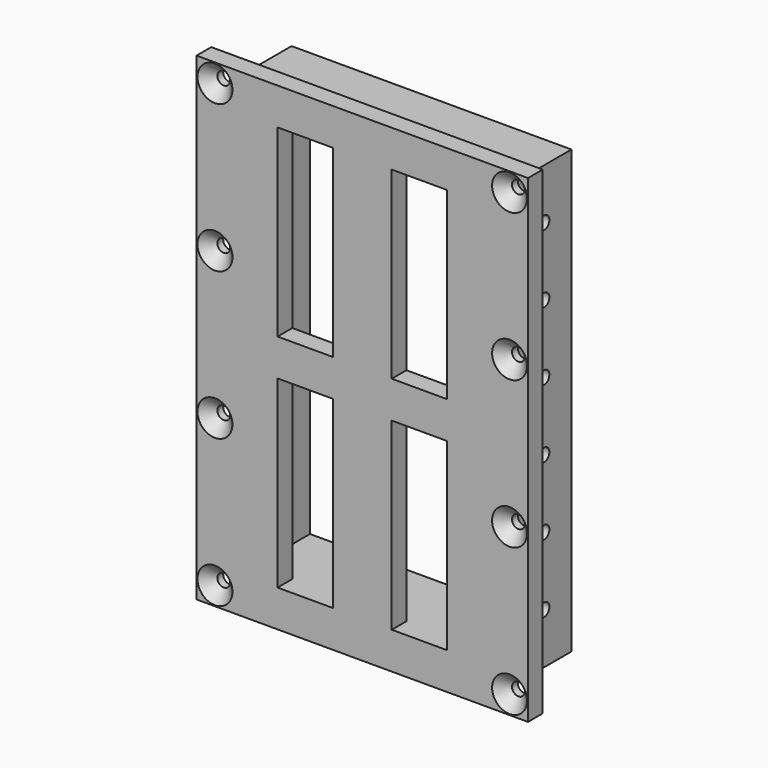
from build123d import *

# Parameters (mm, degrees)
F0_W      = 76
F0_H      = 120
F0_W_2    = 66
F0_H_2    = 110
F1_DEPTH  = 18.5
F2_W      = 90
F2_H      = 130
F2_R      = 1.75
F2_W_2    = 76
F2_H_2    = 120
F2_W_3    = 66
F2_H_3    = 110
F3_DEPTH  = 5
F5_DEPTH  = 5
F7_R      = 1.75
F8_DEPTH  = 5
F10_DEPTH = 2.75
F11_DEPTH = 10
F12_SIZE  = 3
F14_DEPTH = 2.75
F15_DEPTH = 10


with BuildPart() as f1:
    # F0 (on Front) → F1 (new body)
    with BuildSketch(Plane.XZ):
        Rectangle(F0_W, F0_H)
        Rectangle(F0_W_2, F0_H_2, mode=Mode.SUBTRACT)
    extrude(amount=-F1_DEPTH)

    # F2 (on face) → F3 (join)
    with BuildSketch(Plane.XZ):
        Rectangle(F2_W, F2_H)
        with Locations((-40, -60)):
            Circle(F2_R, mode=Mode.SUBTRACT)
        with Locations((40, -60)):
            Circle(F2_R, mode=Mode.SUBTRACT)
        with Locations((-40, 60)):
            Circle(F2_R, mode=Mode.SUBTRACT)
        Rectangle(F2_W_2, F2_H_2, mode=Mode.SUBTRACT)
        with Locations((40, 60)):
            Circle(F2_R, mode=Mode.SUBTRACT)
        Rectangle(F2_W_2, F2_H_2)
        Rectangle(F2_W_3, F2_H_3, mode=Mode.SUBTRACT)
    extrude(amount=F3_DEPTH)


with BuildPart() as f5:
    # F4 (on face) → F5 (new body)
    with BuildSketch(Plane.XZ.offset(5)):
        Polygon((-23, 55), (-33, 55), (-33, 5), (-33, -5), (-33, -55), (-23, -55), (-23, -5), (-8, -5), (-8, -55), (8, -55), (8, -5), (23, -5), (23, -55), (33, -55), (33, -5), (33, 5), (33, 55), (23, 55), (23, 5), (8, 5), (8, 55), (-8, 55), (-8, 5), (-23, 5), align=None)
    extrude(amount=-F5_DEPTH)

    # F6: union F1
    add(f1.part)

    # F7 (on face) → F8 (cut)
    with BuildSketch(Plane.XZ.offset(5)):
        with Locations((-40, 20)):
            Circle(F7_R)
        with Locations((-40, -20)):
            Circle(F7_R)
        with Locations((40, -20)):
            Circle(F7_R)
        with Locations((40, 20)):
            Circle(F7_R)
    extrude(amount=-F8_DEPTH, mode=Mode.SUBTRACT)

    # F9 (on face) → F10 (cut)
    with BuildSketch(Plane(origin=(33, 0, 0), x_dir=(0, -1, 0), z_dir=(-1, 0, 0))):
        with BuildLine():
            Line((-10.8017340466, -49.0204611136), (-9.25, -49.0002336325))
            Line((-9.25, -49.0002336325), (-9.25, -48))
            ThreePointArc((-9.25, -48), (-11, -46.25), (-9.25, -44.5))
            Line((-9.25, -44.5), (-9.25, -43.4997663675))
            Line((-9.25, -43.4997663675), (-10.8734226812, -43.5209283389))
            Line((-10.8734226812, -43.5209283389), (-12.4251567279, -46.2913894525))
            Line((-12.4251567279, -46.2913894525), (-10.8017340466, -49.0204611136))
        make_face()
        with BuildLine():
            Line((-9.25, -48), (-9.25, -49.0002336325))
            Line((-9.25, -49.0002336325), (-7.6265773188, -48.9790716611))
            Line((-7.6265773188, -48.9790716611), (-6.0748432721, -46.2086105475))
            Line((-6.0748432721, -46.2086105475), (-7.6982659534, -43.4795388864))
            Line((-7.6982659534, -43.4795388864), (-9.25, -43.4997663675))
            Line((-9.25, -43.4997663675), (-9.25, -44.5))
            ThreePointArc((-9.25, -44.5), (-8.0125631329, -45.0125631329), (-7.5, -46.25))
            ThreePointArc((-7.5, -46.25), (-8.0125631329, -47.4874368671), (-9.25, -48))
        make_face()
        with BuildLine():
            Line((-10.8377132403, 43.5), (-9.25, 43.5))
            Line((-9.25, 43.5), (-9.25, 44.5))
            ThreePointArc((-9.25, 44.5), (-11, 46.25), (-9.25, 48))
            Line((-9.25, 48), (-9.25, 49))
            Line((-9.25, 49), (-10.8377132403, 49))
            Line((-10.8377132403, 49), (-12.4254264805, 46.25))
            Line((-12.4254264805, 46.25), (-10.8377132403, 43.5))
        make_face()
        with BuildLine():
            Line((-9.25, 44.5), (-9.25, 43.5))
            Line((-9.25, 43.5), (-7.6622867597, 43.5))
            Line((-7.6622867597, 43.5), (-6.0745735195, 46.25))
            Line((-6.0745735195, 46.25), (-7.6622867597, 49))
            Line((-7.6622867597, 49), (-9.25, 49))
            Line((-9.25, 49), (-9.25, 48))
            ThreePointArc((-9.25, 48), (-8.0125631329, 47.4874368671), (-7.5, 46.25))
            ThreePointArc((-7.5, 46.25), (-8.0125631329, 45.0125631329), (-9.25, 44.5))
        make_face()
        with BuildLine():
            Line((-10.8377132403, 25), (-9.25, 25))
            Line((-9.25, 25), (-9.25, 26))
            ThreePointArc((-9.25, 26), (-11, 27.75), (-9.25, 29.5))
            Line((-9.25, 29.5), (-9.25, 30.5))
            Line((-9.25, 30.5), (-10.8377132403, 30.5))
            Line((-10.8377132403, 30.5), (-12.4254264805, 27.75))
            Line((-12.4254264805, 27.75), (-10.8377132403, 25))
        make_face()
        with BuildLine():
            Line((-9.25, 26), (-9.25, 25))
            Line((-9.25, 25), (-7.6622867597, 25))
            Line((-7.6622867597, 25), (-6.0745735195, 27.75))
            Line((-6.0745735195, 27.75), (-7.6622867597, 30.5))
            Line((-7.6622867597, 30.5), (-9.25, 30.5))
            Line((-9.25, 30.5), (-9.25, 29.5))
            ThreePointArc((-9.25, 29.5), (-8.0125631329, 28.9874368671), (-7.5, 27.75))
            ThreePointArc((-7.5, 27.75), (-8.0125631329, 26.5125631329), (-9.25, 26))
        make_face()
        with BuildLine():
            Line((-10.8377132403, 6.5), (-9.25, 6.5))
            Line((-9.25, 6.5), (-9.25, 7.5))
            ThreePointArc((-9.25, 7.5), (-11, 9.25), (-9.25, 11))
            Line((-9.25, 11), (-9.25, 12))
            Line((-9.25, 12), (-10.8377132403, 12))
            Line((-10.8377132403, 12), (-12.4254264805, 9.25))
            Line((-12.4254264805, 9.25), (-10.8377132403, 6.5))
        make_face()
        with BuildLine():
            Line((-9.25, 7.5), (-9.25, 6.5))
            Line((-9.25, 6.5), (-7.6622867597, 6.5))
            Line((-7.6622867597, 6.5), (-6.0745735195, 9.25))
            Line((-6.0745735195, 9.25), (-7.6622867597, 12))
            Line((-7.6622867597, 12), (-9.25, 12))
            Line((-9.25, 12), (-9.25, 11))
            ThreePointArc((-9.25, 11), (-8.0125631329, 10.4874368671), (-7.5, 9.25))
            ThreePointArc((-7.5, 9.25), (-8.0125631329, 8.0125631329), (-9.25, 7.5))
        make_face()
        with BuildLine():
            Line((-10.8377132403, -12), (-9.25, -12))
            Line((-9.25, -12), (-9.25, -11))
            ThreePointArc((-9.25, -11), (-11, -9.25), (-9.25, -7.5))
            Line((-9.25, -7.5), (-9.25, -6.5))
            Line((-9.25, -6.5), (-10.8377132403, -6.5))
            Line((-10.8377132403, -6.5), (-12.4254264805, -9.25))
            Line((-12.4254264805, -9.25), (-10.8377132403, -12))
        make_face()
        with BuildLine():
            Line((-9.25, -11), (-9.25, -12))
            Line((-9.25, -12), (-7.6622867597, -12))
            Line((-7.6622867597, -12), (-6.0745735195, -9.25))
            Line((-6.0745735195, -9.25), (-7.6622867597, -6.5))
            Line((-7.6622867597, -6.5), (-9.25, -6.5))
            Line((-9.25, -6.5), (-9.25, -7.5))
            ThreePointArc((-9.25, -7.5), (-8.0125631329, -8.0125631329), (-7.5, -9.25))
            ThreePointArc((-7.5, -9.25), (-8.0125631329, -10.4874368671), (-9.25, -11))
        make_face()
        with BuildLine():
            Line((-10.8013862672, -30.520655876), (-9.25, -30.5002381544))
            Line((-9.25, -30.5002381544), (-9.25, -29.5))
            ThreePointArc((-9.25, -29.5), (-11, -27.75), (-9.25, -26))
            Line((-9.25, -26), (-9.25, -24.9997618456))
            Line((-9.25, -24.9997618456), (-10.8737652402, -25.0211321435))
            Line((-10.8737652402, -25.0211321435), (-12.4251515074, -27.7917880196))
            Line((-12.4251515074, -27.7917880196), (-10.8013862672, -30.520655876))
        make_face()
        with BuildLine():
            Line((-9.25, -29.5), (-9.25, -30.5002381544))
            Line((-9.25, -30.5002381544), (-7.6262347598, -30.4788678565))
            Line((-7.6262347598, -30.4788678565), (-6.0748484926, -27.7082119804))
            Line((-6.0748484926, -27.7082119804), (-7.6986137328, -24.979344124))
            Line((-7.6986137328, -24.979344124), (-9.25, -24.9997618456))
            Line((-9.25, -24.9997618456), (-9.25, -26))
            ThreePointArc((-9.25, -26), (-8.0125631329, -26.5125631329), (-7.5, -27.75))
            ThreePointArc((-7.5, -27.75), (-8.0125631329, -28.9874368671), (-9.25, -29.5))
        make_face()
    extrude(amount=-F10_DEPTH, mode=Mode.SUBTRACT)

    # F11 (cut): faces of the model
    f11_faces = [f5.faces().sort_by_distance(p)[0] for p in [
        (33, 9.25, -46.25),
        (33, 9.25, -27.75),
        (33, 9.25, -9.25),
        (33, 9.25, 9.25),
        (33, 9.25, 27.75),
        (33, 9.25, 46.25),
    ]]
    extrude(f11_faces, amount=-F11_DEPTH, mode=Mode.SUBTRACT)

    # F12
    f12_edges = [f5.edges().sort_by_distance(p)[0] for p in [
        (38.25, -5, -60),
        (38.25, -5, -20),
        (38.25, -5, 20),
        (38.25, -5, 60),
        (-41.75, -5, 60),
        (-41.75, -5, 20),
        (-41.75, -5, -20),
        (-41.75, -5, -60),
    ]]
    chamfer(f12_edges, length=F12_SIZE)

    # F13 (on face) → F14 (cut)
    with BuildSketch(Plane.YZ.offset(-33)):
        with BuildLine():
            Line((10.8377132403, 49), (9.25, 49))
            Line((9.25, 49), (9.25, 48))
            ThreePointArc((9.25, 48), (10.4874368671, 47.4874368671), (11, 46.25))
            ThreePointArc((11, 46.25), (10.4874368671, 45.0125631329), (9.25, 44.5))
            Line((9.25, 44.5), (9.25, 43.5))
            Line((9.25, 43.5), (10.8377132403, 43.5))
            Line((10.8377132403, 43.5), (12.4254264805, 46.25))
            Line((12.4254264805, 46.25), (10.8377132403, 49))
        make_face()
        with BuildLine():
            Line((9.25, 48), (9.25, 49))
            Line((9.25, 49), (7.6622867597, 49))
            Line((7.6622867597, 49), (6.0745735195, 46.25))
            Line((6.0745735195, 46.25), (7.6622867597, 43.5))
            Line((7.6622867597, 43.5), (9.25, 43.5))
            Line((9.25, 43.5), (9.25, 44.5))
            ThreePointArc((9.25, 44.5), (7.5, 46.25), (9.25, 48))
        make_face()
        with BuildLine():
            Line((10.8377132403, -43.5), (9.25, -43.5))
            Line((9.25, -43.5), (9.25, -44.5))
            ThreePointArc((9.25, -44.5), (10.4874368671, -45.0125631329), (11, -46.25))
            ThreePointArc((11, -46.25), (10.4874368671, -47.4874368671), (9.25, -48))
            Line((9.25, -48), (9.25, -49))
            Line((9.25, -49), (10.8377132403, -49))
            Line((10.8377132403, -49), (12.4254264805, -46.25))
            Line((12.4254264805, -46.25), (10.8377132403, -43.5))
        make_face()
        with BuildLine():
            Line((9.25, -44.5), (9.25, -43.5))
            Line((9.25, -43.5), (7.6622867597, -43.5))
            Line((7.6622867597, -43.5), (6.0745735195, -46.25))
            Line((6.0745735195, -46.25), (7.6622867597, -49))
            Line((7.6622867597, -49), (9.25, -49))
            Line((9.25, -49), (9.25, -48))
            ThreePointArc((9.25, -48), (7.5, -46.25), (9.25, -44.5))
        make_face()
        with BuildLine():
            Line((10.8377132403, -25), (9.25, -25))
            Line((9.25, -25), (9.25, -26))
            ThreePointArc((9.25, -26), (10.4874368671, -26.5125631329), (11, -27.75))
            ThreePointArc((11, -27.75), (10.4874368671, -28.9874368671), (9.25, -29.5))
            Line((9.25, -29.5), (9.25, -30.5))
            Line((9.25, -30.5), (10.8377132403, -30.5))
            Line((10.8377132403, -30.5), (12.4254264805, -27.75))
            Line((12.4254264805, -27.75), (10.8377132403, -25))
        make_face()
        with BuildLine():
            Line((9.25, -26), (9.25, -25))
            Line((9.25, -25), (7.6622867597, -25))
            Line((7.6622867597, -25), (6.0745735195, -27.75))
            Line((6.0745735195, -27.75), (7.6622867597, -30.5))
            Line((7.6622867597, -30.5), (9.25, -30.5))
            Line((9.25, -30.5), (9.25, -29.5))
            ThreePointArc((9.25, -29.5), (7.5, -27.75), (9.25, -26))
        make_face()
        with BuildLine():
            Line((10.8501840061, -6.4784), (9.25, -6.4784))
            Line((9.25, -6.4784), (9.25, -7.5))
            ThreePointArc((9.25, -7.5), (10.4874368671, -8.0125631329), (11, -9.25))
            ThreePointArc((11, -9.25), (10.4874368671, -10.4874368671), (9.25, -11))
            Line((9.25, -11), (9.25, -12.0216))
            Line((9.25, -12.0216), (10.8501840061, -12.0216))
            Line((10.8501840061, -12.0216), (12.4503680122, -9.25))
            Line((12.4503680122, -9.25), (10.8501840061, -6.4784))
        make_face()
        with BuildLine():
            Line((9.25, -7.5), (9.25, -6.4784))
            Line((9.25, -6.4784), (7.6498159939, -6.4784))
            Line((7.6498159939, -6.4784), (6.0496319878, -9.25))
            Line((6.0496319878, -9.25), (7.6498159939, -12.0216))
            Line((7.6498159939, -12.0216), (9.25, -12.0216))
            Line((9.25, -12.0216), (9.25, -11))
            ThreePointArc((9.25, -11), (7.5, -9.25), (9.25, -7.5))
        make_face()
        with BuildLine():
            Line((10.8377132403, 12), (9.25, 12))
            Line((9.25, 12), (9.25, 11))
            ThreePointArc((9.25, 11), (10.4874368671, 10.4874368671), (11, 9.25))
            ThreePointArc((11, 9.25), (10.4874368671, 8.0125631329), (9.25, 7.5))
            Line((9.25, 7.5), (9.25, 6.5))
            Line((9.25, 6.5), (10.8377132403, 6.5))
            Line((10.8377132403, 6.5), (12.4254264805, 9.25))
            Line((12.4254264805, 9.25), (10.8377132403, 12))
        make_face()
        with BuildLine():
            Line((9.25, 11), (9.25, 12))
            Line((9.25, 12), (7.6622867597, 12))
            Line((7.6622867597, 12), (6.0745735195, 9.25))
            Line((6.0745735195, 9.25), (7.6622867597, 6.5))
            Line((7.6622867597, 6.5), (9.25, 6.5))
            Line((9.25, 6.5), (9.25, 7.5))
            ThreePointArc((9.25, 7.5), (7.5, 9.25), (9.25, 11))
        make_face()
        with BuildLine():
            Line((10.8377132403, 30.5), (9.25, 30.5))
            Line((9.25, 30.5), (9.25, 29.5))
            ThreePointArc((9.25, 29.5), (10.4874368671, 28.9874368671), (11, 27.75))
            ThreePointArc((11, 27.75), (10.4874368671, 26.5125631329), (9.25, 26))
            Line((9.25, 26), (9.25, 25))
            Line((9.25, 25), (10.8377132403, 25))
            Line((10.8377132403, 25), (12.4254264805, 27.75))
            Line((12.4254264805, 27.75), (10.8377132403, 30.5))
        make_face()
        with BuildLine():
            Line((9.25, 29.5), (9.25, 30.5))
            Line((9.25, 30.5), (7.6622867597, 30.5))
            Line((7.6622867597, 30.5), (6.0745735195, 27.75))
            Line((6.0745735195, 27.75), (7.6622867597, 25))
            Line((7.6622867597, 25), (9.25, 25))
            Line((9.25, 25), (9.25, 26))
            ThreePointArc((9.25, 26), (7.5, 27.75), (9.25, 29.5))
        make_face()
    extrude(amount=-F14_DEPTH, mode=Mode.SUBTRACT)

    # F15 (cut): faces of the model
    f15_faces = [f5.faces().sort_by_distance(p)[0] for p in [
        (-33, 9.25, 46.25),
        (-33, 9.25, 27.75),
        (-33, 9.25, 9.25),
        (-33, 9.25, -9.25),
        (-33, 9.25, -27.75),
        (-33, 9.25, -46.25),
    ]]
    extrude(f15_faces, amount=-F15_DEPTH, mode=Mode.SUBTRACT)


solid = f5.part
